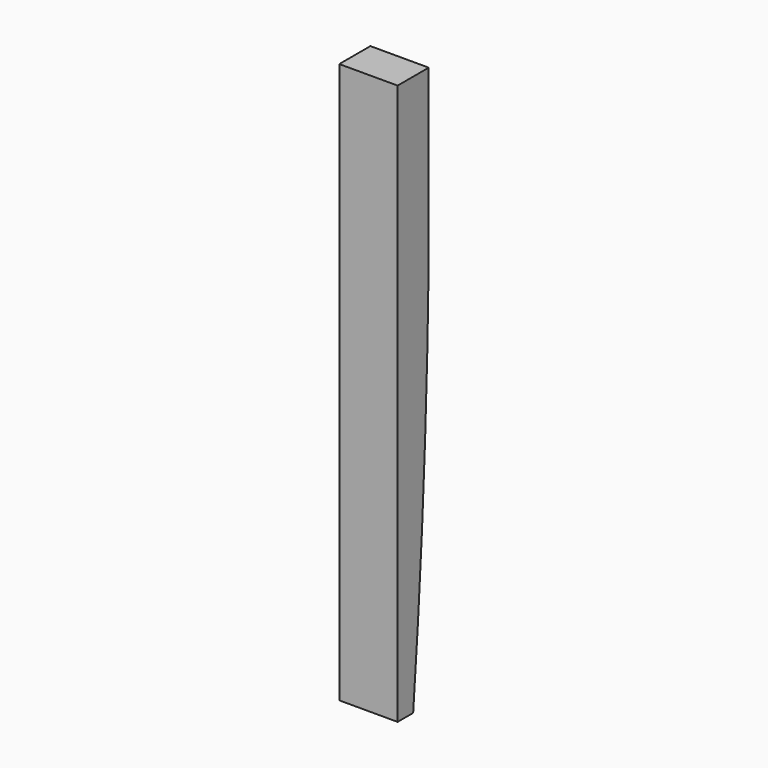
from build123d import *

# Parameters (mm, degrees)
F0_W     = 11.43
F0_H     = 109.728
F1_DEPTH = 7.62
F3_DEPTH = 25.4


with BuildPart() as f1:
    # F0 (on Front) → F1 (new body)
    with BuildSketch(Plane.XZ):
        with Locations((41.4564540316, 10.5215980716)):
            Rectangle(F0_W, F0_H)
    extrude(amount=F1_DEPTH)

    # F2 (on face) → F3 (cut)
    with BuildSketch(Plane.YZ.offset(47.1714540316)):
        with BuildLine():
            ThreePointArc((0, 32.3497010216), (-1.2394704753, -6.0294134076), (-3.81, -44.3424019284))
            Line((-3.81, -44.3424019284), (0, -44.3424019284))
            Line((0, -44.3424019284), (0, 32.3497010216))
        make_face()
    extrude(amount=-F3_DEPTH, mode=Mode.SUBTRACT)


solid = f1.part
